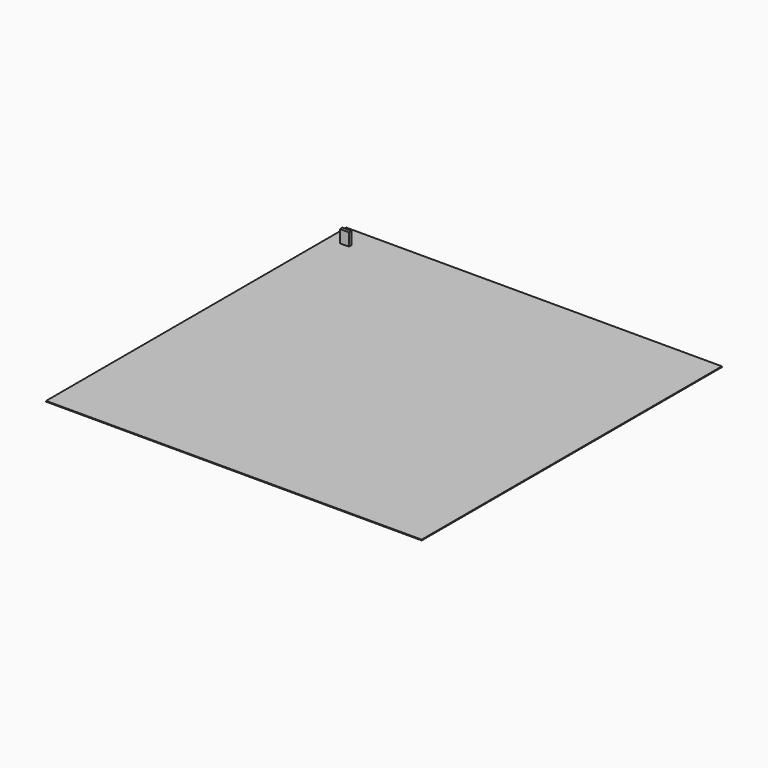
from build123d import *

# Parameters (mm, degrees)
F0_W          = 101.058343
F0_H          = 100.973705
F1_DEPTH      = 0.2
F2_W          = 2.407715
F2_H          = 0.843372
F3_DEPTH      = 3.6
F3_DEPTH_BACK = 1.2


with BuildPart() as f1:
    # F0 (on Top) → F1 (new body)
    with BuildSketch(Plane.XY):
        with Locations((-54.740081, -35.397525)):
            Rectangle(F0_W, F0_H)
    extrude(amount=F1_DEPTH)

    # F2 (on Top) → F3 (join, two sides)
    with BuildSketch(Plane.XY) as f3_sk:
        with Locations((-100.633762, 9.064055)):
            Rectangle(F2_W, F2_H)
    extrude(amount=F3_DEPTH)
    extrude(f3_sk.sketch, amount=-F3_DEPTH_BACK)


solid = f1.part
